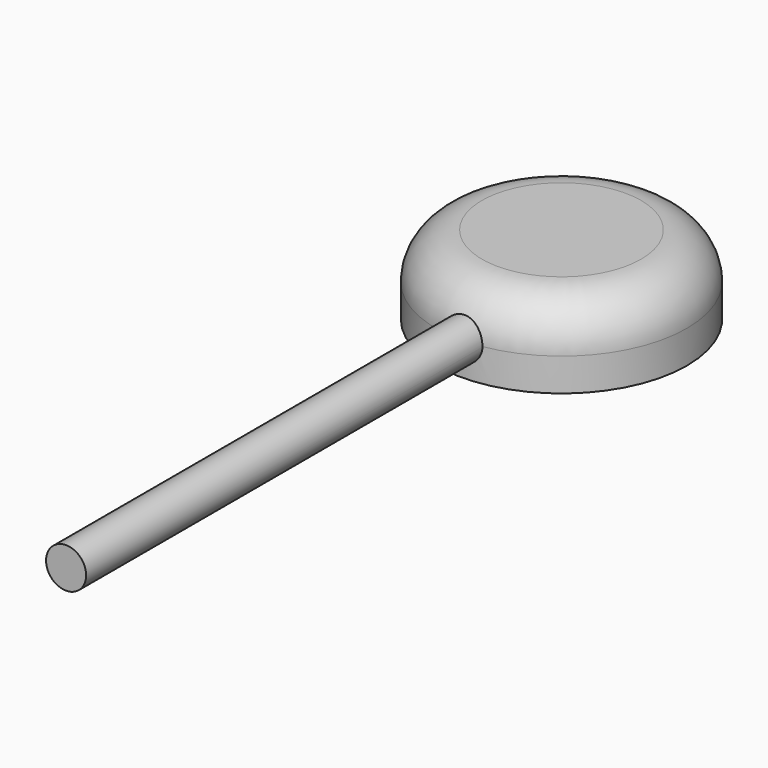
from build123d import *

# Parameters (mm, degrees)
F0_R     = 11.735047
F1_DEPTH = 7.366
F2_R     = 4.292472
F3_R     = 5.7912
F4_DEPTH = 0.762
F5_R     = 1.875011
F6_DEPTH = 57.912


with BuildPart() as f1:
    # F0 (on Top) → F1 (new body)
    with BuildSketch(Plane.XY):
        Circle(F0_R)
    extrude(amount=F1_DEPTH)

    # F2
    f2_edges = [f1.edges().sort_by_distance(p)[0] for p in [
        (-11.735047, 0, 7.366),
    ]]
    fillet(f2_edges, radius=F2_R)

    # F3 (on face) → F4 (cut)
    with BuildSketch(Plane(origin=(0, 0, 0), x_dir=(1, 0, 0), z_dir=(0, 0, -1))):
        Circle(F3_R)
    extrude(amount=-F4_DEPTH, mode=Mode.SUBTRACT)

    # F5 (on Front) → F6 (join)
    with BuildSketch(Plane.XZ):
        with Locations((0, 3.073911)):
            Circle(F5_R)
    extrude(amount=F6_DEPTH)


solid = f1.part
